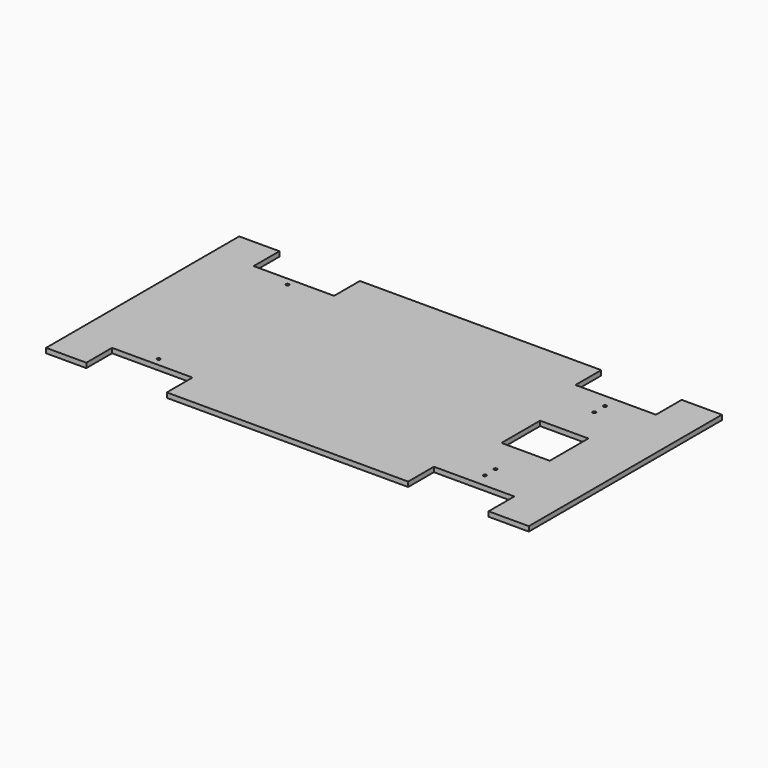
from build123d import *

# Parameters (mm, degrees)
F0_R     = 1
F0_W     = 30
F0_H     = 30
F1_DEPTH = 3


with BuildPart() as f1:
    # F0 (on Top) → F1 (new body)
    with BuildSketch(Plane.XY):
        Polygon((-125, 75), (-150, 75), (-150, -75), (-125, -75), (-125, -55), (-75, -55), (-75, -75), (75, -75), (75, -55), (125, -55), (125, -75), (150, -75), (150, 75), (125, 75), (125, 55), (75, 55), (75, 75), (-75, 75), (-75, 55), (-125, 55), align=None)
        with Locations((-100, -50)):
            Circle(F0_R, mode=Mode.SUBTRACT)
        with Locations((100, -46.666667)):
            Circle(F0_R, mode=Mode.SUBTRACT)
        with Locations((100, -38.333333)):
            Circle(F0_R, mode=Mode.SUBTRACT)
        with Locations((-100, 50)):
            Circle(F0_R, mode=Mode.SUBTRACT)
        with Locations((100, 0)):
            Rectangle(F0_W, F0_H, mode=Mode.SUBTRACT)
        with Locations((100, 38.333333)):
            Circle(F0_R, mode=Mode.SUBTRACT)
        with Locations((100, 46.666667)):
            Circle(F0_R, mode=Mode.SUBTRACT)
    extrude(amount=F1_DEPTH)


solid = f1.part
